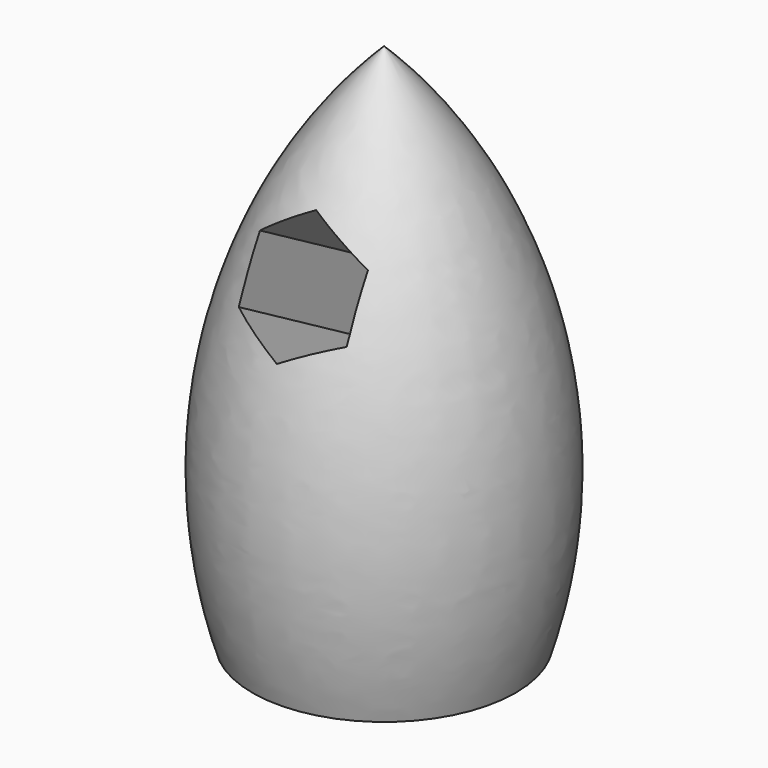
from build123d import *

# Parameters (mm, degrees)
F5_DEPTH = 45.2954225318
F6_DEPTH = 15.2954225318


with BuildPart() as f1:
    # F0 (on Front) → F1 (revolve)
    with BuildSketch(Plane.XZ):
        with BuildLine():
            Line((0, 60), (0, 0))
            Line((0, 0), (15, 0))
            ThreePointArc((15, 0), (15.8785988236, 32.0946497059), (0, 60))
        make_face()
    revolve(axis=Axis((0, 0, 30), (0, 0, -1)))

    # F4 (on face) → F5 (cut, through all)
    with BuildSketch(Plane(origin=(0, 0, 0), x_dir=(-1, 0, 0), z_dir=(0, 0.8660254038, -0.5))):
        Polygon((-6.1493774124, 25.6319322156), (0, 22.0815875113), (6.1493774124, 25.6319322156), (6.1493774124, 32.7326216244), (0, 36.2829663288), (-6.1493774124, 32.7326216244), align=None)
    extrude(amount=-F5_DEPTH, mode=Mode.SUBTRACT)

    # F6 (cut, through all): a face of the model
    f6_faces = [f1.faces().sort_by_distance(p)[0] for p in [
        (1.73e-08, 14.1012800396, 24.4241334804),
    ]]
    extrude(f6_faces, amount=-F6_DEPTH, mode=Mode.SUBTRACT)


solid = f1.part
